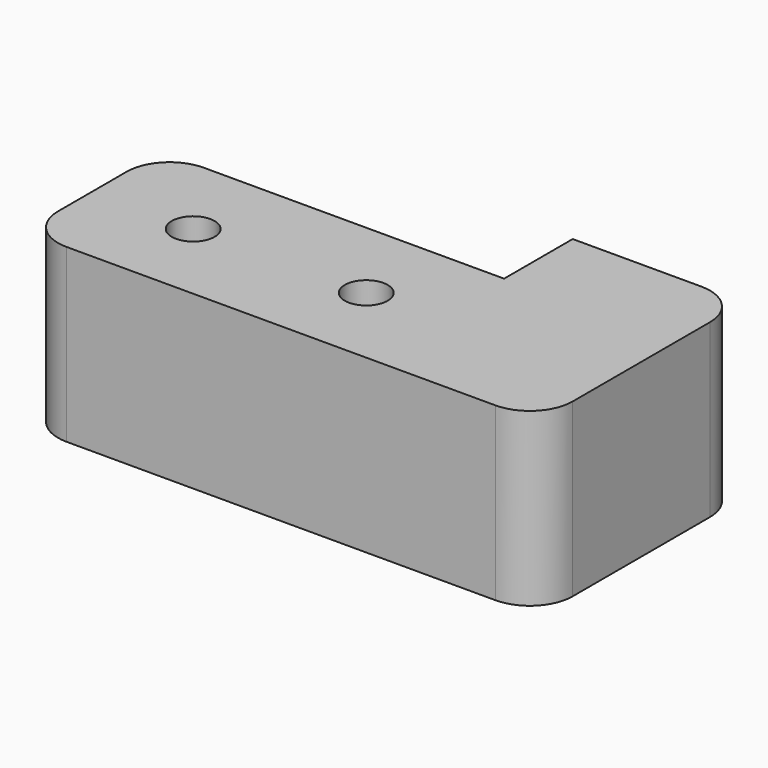
from build123d import *

# Parameters (mm, degrees)
F1_DEPTH = 50.8
F2_R     = 12.7
F3_R     = 12.7
F4_R     = 12.7
F7_D     = 12.7


with BuildPart() as f1:
    # F0 (on Top) → F1 (new body)
    with BuildSketch(Plane.XY):
        Polygon((0, 50.8), (0, 0), (152.4, 0), (152.4, 76.2), (101.6, 76.2), (101.6, 50.8), align=None)
    extrude(amount=F1_DEPTH)

    # F2
    f2_edges = [f1.edges().sort_by_distance(p)[0] for p in [
        (152.4, 76.2, 25.4),
    ]]
    fillet(f2_edges, radius=F2_R)

    # F3
    f3_edges = [f1.edges().sort_by_distance(p)[0] for p in [
        (0, 50.8, 25.4),
    ]]
    fillet(f3_edges, radius=F3_R)

    # F4
    f4_edges = [f1.edges().sort_by_distance(p)[0] for p in [
        (0, 0, 25.4),
        (152.4, 0, 25.4),
    ]]
    fillet(f4_edges, radius=F4_R)

    # F7 (through all)
    with Locations(Plane.XY.offset(50.8)):
        with Locations((29.908501, 25.3365), (81.15299, 25.3365)):
            Hole(F7_D / 2)


solid = f1.part
